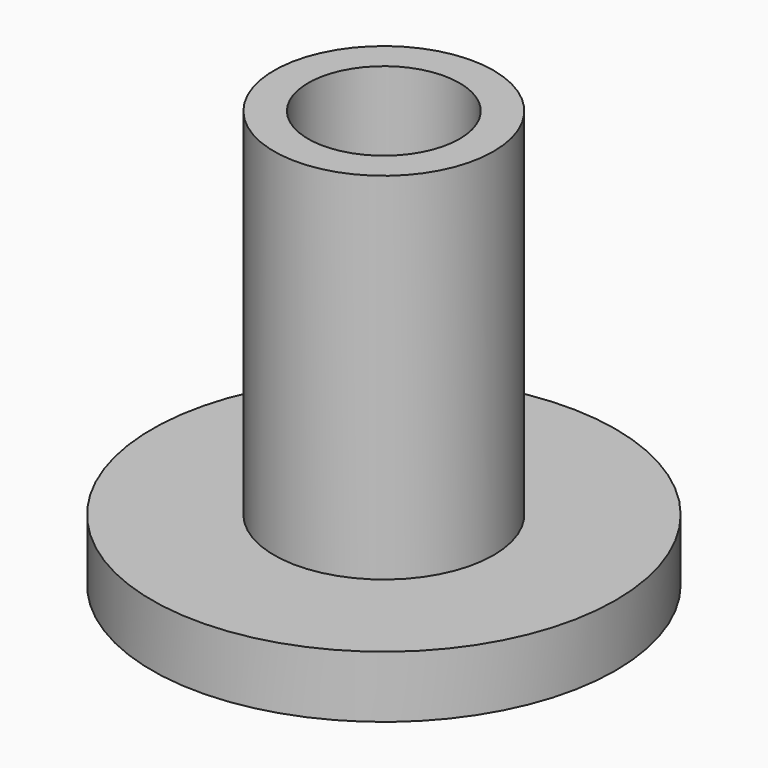
from build123d import *

# Parameters (mm, degrees)
SKETCH_R      = 7.1
SKETCH_R_2    = 4.9
PAD_DEPTH     = 23
SKETCH001_R   = 15
SKETCH001_R_2 = 4.9
PAD001_DEPTH  = 4


with BuildPart() as part:
    # Sketch → Pad (new body)
    with BuildSketch(Plane.XY):
        Circle(SKETCH_R)
        Circle(SKETCH_R_2, mode=Mode.SUBTRACT)
    extrude(amount=PAD_DEPTH)

    # Sketch001 → Pad001 (join)
    with BuildSketch(Plane.XY):
        Circle(SKETCH001_R)
        Circle(SKETCH001_R_2, mode=Mode.SUBTRACT)
    extrude(amount=-PAD001_DEPTH)


solid = part.part
